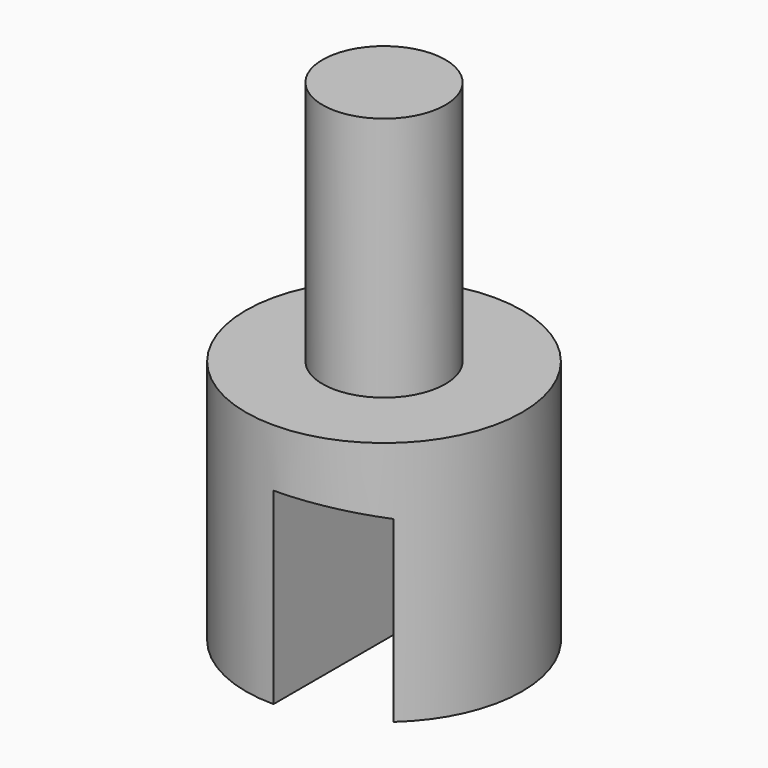
from build123d import *

# Parameters (mm, degrees)
F0_R     = 14.2875
F1_DEPTH = 25.4
F2_R     = 6.35
F3_DEPTH = 25.4
F7_DEPTH = 9.525


with BuildPart() as f1:
    # F0 (on Top) → F1 (new body)
    with BuildSketch(Plane.XY):
        Circle(F0_R)
    extrude(amount=F1_DEPTH)

    # F2 (on face) → F3 (join)
    with BuildSketch(Plane.XY.offset(25.4)):
        Circle(F2_R)
    extrude(amount=F3_DEPTH)

    # F6 (on Right) → F7 (cut)
    with BuildSketch(Plane.YZ):
        Polygon((-14.2875, 0), (-11.1125, 0), (11.103606, 0), (14.2875, 0), (14.2875, 11.79217), (-14.2875, 19.448818), align=None)
    extrude(amount=F7_DEPTH, mode=Mode.SUBTRACT)


solid = f1.part
